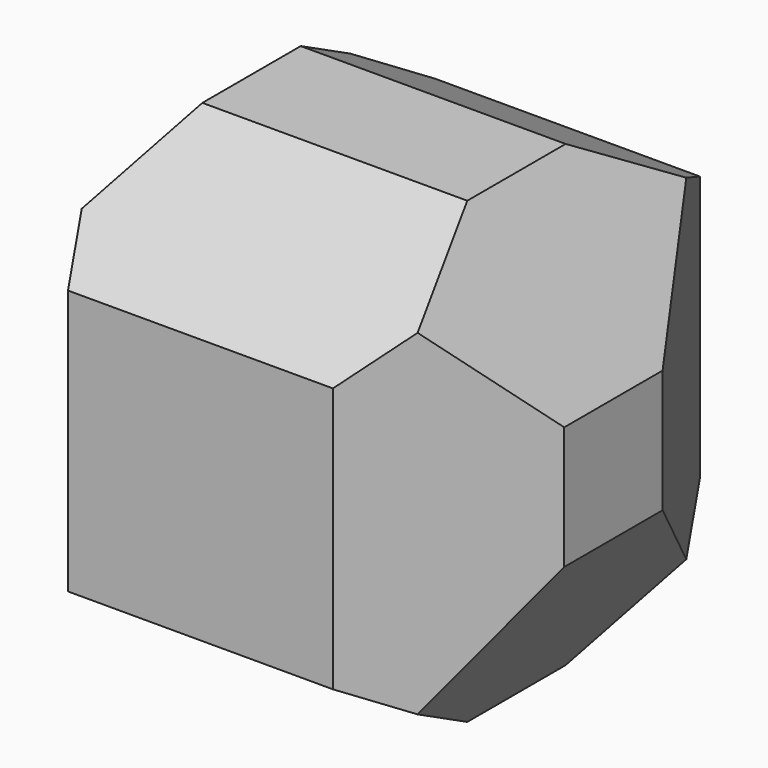
from build123d import *

# Parameters (mm, degrees)
F3_DEPTH = 30
F4_DEPTH = 30
F5_DEPTH = 30


with BuildPart() as f3:
    # F0 (on Top) → F3 (new body, symmetric)
    with BuildSketch(Plane.XY):
        Polygon((17.320508, 30), (-17.320508, 30), (-34.641016, 0), (-17.320508, -30), (17.320508, -30), (34.641016, 0), align=None)
    extrude(amount=F3_DEPTH, both=True)

    # F1 (on Right) → F4 (intersect, symmetric)
    with BuildSketch(Plane.YZ):
        Polygon((30, -17.320508), (30, 17.320508), (0, 34.641016), (-30, 17.320508), (-30, -17.320508), (0, -34.641016), align=None)
    extrude(amount=F4_DEPTH, both=True, mode=Mode.INTERSECT)

    # F2 (on Front) → F5 (intersect, symmetric)
    with BuildSketch(Plane.XZ):
        Polygon((17.320508, 30), (-17.320508, 30), (-34.641016, 0), (-17.320508, -30), (17.320508, -30), (34.641016, 0), align=None)
    extrude(amount=F5_DEPTH, both=True, mode=Mode.INTERSECT)


solid = f3.part
